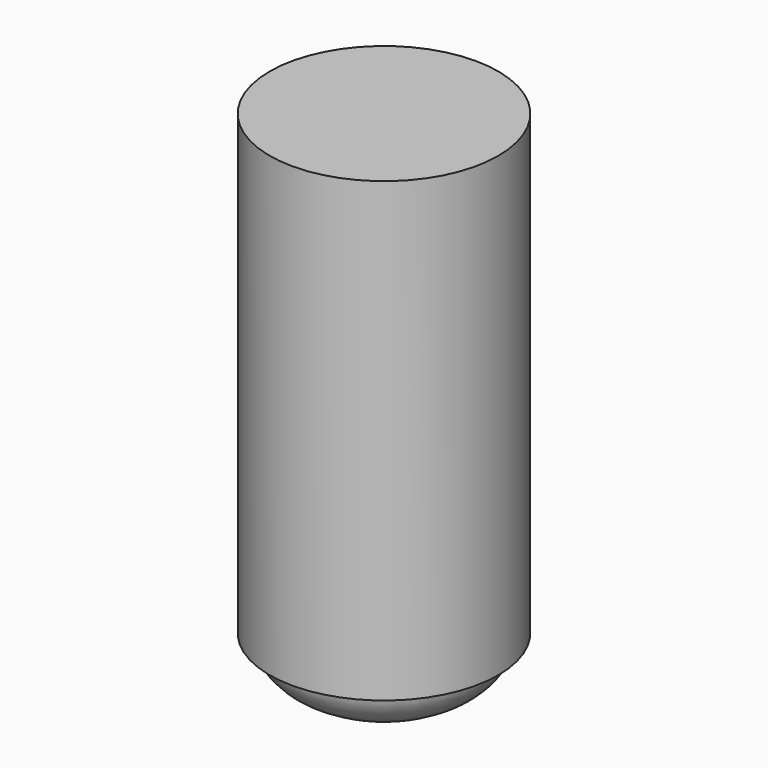
from build123d import *

# Parameters (mm, degrees)
F3_R     = 1.2
F4_DEPTH = 6.0436568389
F5_R     = 5
F6_DEPTH = 20


with BuildPart() as f1:
    # F0 (on Front) → F1 (revolve)
    with BuildSketch(Plane.XZ):
        with BuildLine():
            add(Edge.make_bspline(
                [(2.7, -2), (2.9007970127, -1.916334578), (3.0836008504, -1.8207824423)],
                knots=[5.3558900892, 5.3558900892, 5.3558900892, 5.4673285167, 5.4673285167, 5.4673285167], degree=2, weights=[1, 0.9984480862, 1]))
            Line((3.0836008504, -1.8207824423), (0, 1.262818408))
            Line((0, 1.262818408), (0, -2))
            Line((0, -2), (2.7, -2))
        make_face()
        with BuildLine():
            add(Edge.make_bspline(
                [(3.0836008504, -1.8207824423), (4.5, -1.0804261923), (4.5, 0)],
                knots=[5.4673285167, 5.4673285167, 5.4673285167, 6.2831853072, 6.2831853072, 6.2831853072], degree=2, weights=[1, 0.9179446153, 1]))
            add(Edge.make_bspline(
                [(4.5, 0), (4.5, 2.5), (0, 2.5)],
                knots=[0, 0, 0, 1.5707963268, 1.5707963268, 1.5707963268], degree=2, weights=[1, 0.7071067812, 1]))
            Line((0, 2.5), (0, 1.262818408))
            Line((0, 1.262818408), (3.0836008504, -1.8207824423))
        make_face()
        with BuildLine():
            add(Edge.make_bspline(
                [(2.7, -2), (2.9007970127, -1.916334578), (3.0836008504, -1.8207824423)],
                knots=[5.3558900892, 5.3558900892, 5.3558900892, 5.4673285167, 5.4673285167, 5.4673285167], degree=2, weights=[1, 0.9984480862, 1]))
            Line((3.0836008504, -1.8207824423), (0, 1.262818408))
            Line((0, 1.262818408), (0, -2))
            Line((0, -2), (2.7, -2))
        make_face()
    revolve(axis=Axis((0, 0, 0.25), (0, 0, -1)))

    # F3 (on line) → F4 (cut, through all)
    with BuildSketch(Plane(origin=(3.2279646758, 0, -3.2279646758), x_dir=(0, 1, 0), z_dir=(0.7071067812, 0, -0.7071067812))):
        with Locations((0, -0.3070525403)):
            Circle(F3_R)
    extrude(amount=-F4_DEPTH, mode=Mode.SUBTRACT)


with BuildPart() as f6:
    # F5 (on Top) → F6 (new body)
    with BuildSketch(Plane.XY):
        Circle(F5_R)
    extrude(amount=F6_DEPTH)


solid = Compound([f1.part, f6.part])
